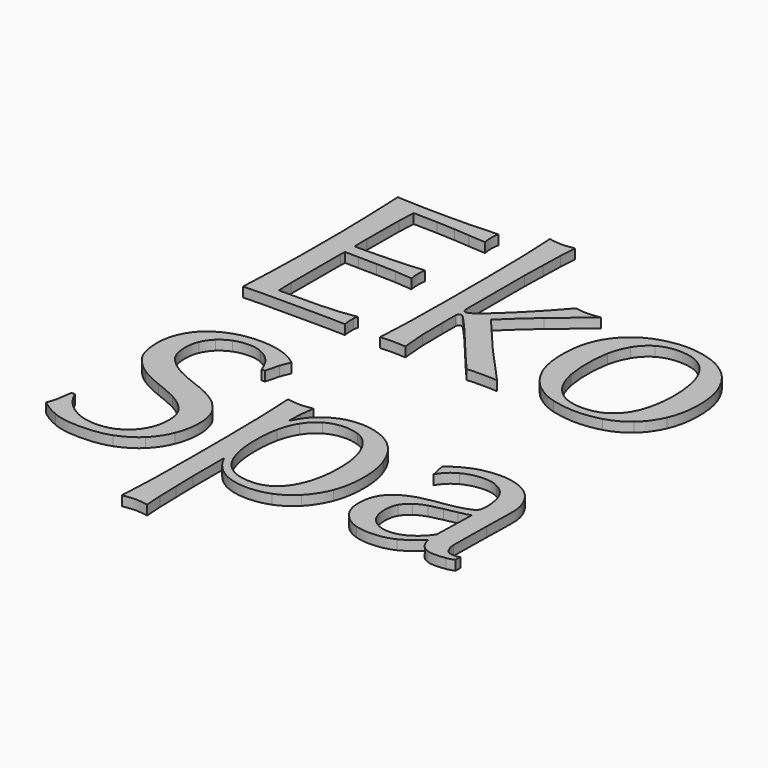
from build123d import *

# Parameters (mm, degrees)
F1_DEPTH = 2


with BuildPart() as f1:
    # F0 (on Top) → F1 (new body)
    with BuildSketch(Plane.XY):
        with BuildLine():
            add(Edge.make_bspline(
                [(-37.719566475, 40.1666103679), (-37.6031181557, 37.6823780262), (-37.544893996, 35.1593326345), (-37.544893996, 32.5974696081)],
                knots=[0, 0, 0, 0, 1, 1, 1, 1], degree=3))
            Line((-37.544893996, 32.5974696081), (-37.544893996, 22.5829118489))
            add(Edge.make_bspline(
                [(-37.544893996, 22.5829118489), (-37.544893996, 20.0210488225), (-37.6031181557, 17.4980011385), (-37.719566475, 15.0137710891)],
                knots=[0, 0, 0, 0, 1, 1, 1, 1], degree=3))
            add(Edge.make_bspline(
                [(-37.719566475, 15.0137710891), (-37.7971971598, 12.5683563821), (-37.8942389541, 10.1035328577), (-38.0106872735, 7.6193028083)],
                knots=[0, 0, 0, 0, 1, 1, 1, 1], degree=3))
            add(Edge.make_bspline(
                [(-38.0106872735, 7.6193028083), (-36.2251448481, 7.6969357853), (-34.4590135324, 7.7357511277), (-32.7122887416, 7.7357511277)],
                knots=[0, 0, 0, 0, 1, 1, 1, 1], degree=3))
            add(Edge.make_bspline(
                [(-32.7122887416, 7.7357511277), (-30.9655639509, 7.7357511277), (-29.1994303428, 7.7357511277), (-27.4138902097, 7.7357511277)],
                knots=[0, 0, 0, 0, 1, 1, 1, 1], degree=3))
            add(Edge.make_bspline(
                [(-27.4138902097, 7.7357511277), (-25.6283477844, 7.7357511277), (-23.8816229936, 7.7357511277), (-22.1737158376, 7.7357511277)],
                knots=[0, 0, 0, 0, 1, 1, 1, 1], degree=3))
            add(Edge.make_bspline(
                [(-22.1737158376, 7.7357511277), (-20.4269910468, 7.7357511277), (-18.6802662561, 7.6969357853), (-16.9335414654, 7.6193028083)],
                knots=[0, 0, 0, 0, 1, 1, 1, 1], degree=3))
            add(Edge.make_bspline(
                [(-16.9335414654, 7.6193028083), (-17.0499897847, 8.0074631088), (-17.1082139444, 8.512074021), (-17.1082139444, 9.1331309603)],
                knots=[0, 0, 0, 0, 1, 1, 1, 1], degree=3))
            add(Edge.make_bspline(
                [(-17.1082139444, 9.1331309603), (-17.1082139444, 9.4048429414), (-17.1082139444, 9.6959637399), (-17.1082139444, 10.0064933557)],
                knots=[0, 0, 0, 0, 1, 1, 1, 1], degree=3))
            add(Edge.make_bspline(
                [(-17.1082139444, 10.0064933557), (-17.0693963098, 10.3558383138), (-17.0111721501, 10.6663679296), (-16.9335414654, 10.9380799107)],
                knots=[0, 0, 0, 0, 1, 1, 1, 1], degree=3))
            add(Edge.make_bspline(
                [(-16.9335414654, 10.9380799107), (-17.8651280204, 10.7439986143), (-18.9713870546, 10.5887349526), (-20.2523185678, 10.4722866332)],
                knots=[0, 0, 0, 0, 1, 1, 1, 1], degree=3))
            add(Edge.make_bspline(
                [(-20.2523185678, 10.4722866332), (-21.4944324463, 10.3946536562), (-22.8335881192, 10.3170229714), (-24.2697855864, 10.2393899944)],
                knots=[0, 0, 0, 0, 1, 1, 1, 1], degree=3))
            add(Edge.make_bspline(
                [(-24.2697855864, 10.2393899944), (-25.667165419, 10.2005746521), (-27.103360594, 10.1811658347), (-28.5783734036, 10.1811658347)],
                knots=[0, 0, 0, 0, 1, 1, 1, 1], degree=3))
            add(Edge.make_bspline(
                [(-28.5783734036, 10.1811658347), (-30.0145685785, 10.1811658347), (-31.3731330687, 10.1811658347), (-32.6540645819, 10.1811658347)],
                knots=[0, 0, 0, 0, 1, 1, 1, 1], degree=3))
            add(Edge.make_bspline(
                [(-32.6540645819, 10.1811658347), (-32.6928799243, 10.9186710934), (-32.7316952667, 12.0055236025), (-32.7705129013, 13.4417187774)],
                knots=[0, 0, 0, 0, 1, 1, 1, 1], degree=3))
            add(Edge.make_bspline(
                [(-32.7705129013, 13.4417187774), (-32.7705129013, 14.8779139524), (-32.7705129013, 16.7022717201), (-32.7705129013, 18.9147897884)],
                knots=[0, 0, 0, 0, 1, 1, 1, 1], degree=3))
            Line((-32.7705129013, 18.9147897884), (-32.7705129013, 22.4082393698))
            Line((-32.7705129013, 22.4082393698), (-32.7705129013, 24.6789815978))
            add(Edge.make_bspline(
                [(-32.7705129013, 24.6789815978), (-32.7705129013, 25.3000385371), (-32.7705129013, 25.8046494492), (-32.7705129013, 26.1928097498)],
                knots=[0, 0, 0, 0, 1, 1, 1, 1], degree=3))
            add(Edge.make_bspline(
                [(-32.7705129013, 26.1928097498), (-32.7316952667, 26.6197876849), (-32.7122887416, 27.0079479854), (-32.7122887416, 27.3572929436)],
                knots=[0, 0, 0, 0, 1, 1, 1, 1], degree=3))
            add(Edge.make_bspline(
                [(-32.7122887416, 27.3572929436), (-32.0135988253, 27.3572929436), (-31.0820122703, 27.3378841262), (-29.9175290765, 27.2990687839)],
                knots=[0, 0, 0, 0, 1, 1, 1, 1], degree=3))
            add(Edge.make_bspline(
                [(-29.9175290765, 27.2990687839), (-28.714228248, 27.2990687839), (-27.4527055521, 27.2796599666), (-26.1329586965, 27.2408446242)],
                knots=[0, 0, 0, 0, 1, 1, 1, 1], degree=3))
            add(Edge.make_bspline(
                [(-26.1329586965, 27.2408446242), (-24.7743942063, 27.2408446242), (-23.4352385334, 27.2020292818), (-22.1154916779, 27.1243963048)],
                knots=[0, 0, 0, 0, 1, 1, 1, 1], degree=3))
            add(Edge.make_bspline(
                [(-22.1154916779, 27.1243963048), (-20.7569271876, 27.0467633278), (-19.5730351765, 26.9497238257), (-18.5638179367, 26.8332755064)],
                knots=[0, 0, 0, 0, 1, 1, 1, 1], degree=3))
            add(Edge.make_bspline(
                [(-18.5638179367, 26.8332755064), (-18.6802662561, 27.4155171033), (-18.7384904158, 27.9977587002), (-18.7384904158, 28.5800002971)],
                knots=[0, 0, 0, 0, 1, 1, 1, 1], degree=3))
            add(Edge.make_bspline(
                [(-18.7384904158, 28.5800002971), (-18.7384904158, 29.2010572364), (-18.6802662561, 29.8027076506), (-18.5638179367, 30.3849515398)],
                knots=[0, 0, 0, 0, 1, 1, 1, 1], degree=3))
            add(Edge.make_bspline(
                [(-18.5638179367, 30.3849515398), (-19.4177715148, 30.3073185628), (-20.3299492525, 30.2296855858), (-21.3003534422, 30.152054901)],
                knots=[0, 0, 0, 0, 1, 1, 1, 1], degree=3))
            add(Edge.make_bspline(
                [(-21.3003534422, 30.152054901), (-22.2319399972, 30.1132372664), (-23.2605660544, 30.0550131067), (-24.3862339058, 29.977382422)],
                knots=[0, 0, 0, 0, 1, 1, 1, 1], degree=3))
            add(Edge.make_bspline(
                [(-24.3862339058, 29.977382422), (-25.511899465, 29.9385647873), (-26.7540156358, 29.8997494449), (-28.112580126, 29.8609341026)],
                knots=[0, 0, 0, 0, 1, 1, 1, 1], degree=3))
            add(Edge.make_bspline(
                [(-28.112580126, 29.8609341026), (-29.471142324, 29.8221164679), (-31.0043792933, 29.8027099429), (-32.7122887416, 29.8027099429)],
                knots=[0, 0, 0, 0, 1, 1, 1, 1], degree=3))
            add(Edge.make_bspline(
                [(-32.7122887416, 29.8027099429), (-32.7122887416, 30.5402152015), (-32.7316952667, 31.6270654183), (-32.7705129013, 33.0632628856)],
                knots=[0, 0, 0, 0, 1, 1, 1, 1], degree=3))
            add(Edge.make_bspline(
                [(-32.7705129013, 33.0632628856), (-32.7705129013, 34.4994580605), (-32.7705129013, 35.9744708701), (-32.7705129013, 37.4882990221)],
                knots=[0, 0, 0, 0, 1, 1, 1, 1], degree=3))
            add(Edge.make_bspline(
                [(-32.7705129013, 37.4882990221), (-32.7705129013, 38.924494197), (-32.751104084, 40.2054257102), (-32.7122887416, 41.3310935617)],
                knots=[0, 0, 0, 0, 1, 1, 1, 1], degree=3))
            add(Edge.make_bspline(
                [(-32.7122887416, 41.3310935617), (-32.6346557646, 42.4567591209), (-32.5764316049, 43.640651132), (-32.5376162626, 44.8827673029)],
                knots=[0, 0, 0, 0, 1, 1, 1, 1], degree=3))
            add(Edge.make_bspline(
                [(-32.5376162626, 44.8827673029), (-30.6356255178, 44.8827673029), (-29.0053490464, 44.8439496682), (-27.6467868485, 44.7663189835)],
                knots=[0, 0, 0, 0, 1, 1, 1, 1], degree=3))
            add(Edge.make_bspline(
                [(-27.6467868485, 44.7663189835), (-26.2882223583, 44.7275013488), (-25.0461061875, 44.6692771891), (-23.9204406283, 44.5916465044)],
                knots=[0, 0, 0, 0, 1, 1, 1, 1], degree=3))
            add(Edge.make_bspline(
                [(-23.9204406283, 44.5916465044), (-22.7559574345, 44.5140135274), (-21.6691049254, 44.4363805504), (-20.6598876856, 44.3587498656)],
                knots=[0, 0, 0, 0, 1, 1, 1, 1], degree=3))
            add(Edge.make_bspline(
                [(-20.6598876856, 44.3587498656), (-19.6118528112, 44.2811168886), (-18.4667761424, 44.2034839116), (-17.2246622638, 44.1258532269)],
                knots=[0, 0, 0, 0, 1, 1, 1, 1], degree=3))
            add(Edge.make_bspline(
                [(-17.2246622638, 44.1258532269), (-17.3411105832, 44.7080948238), (-17.3993347429, 45.2903364207), (-17.3993347429, 45.8725780176)],
                knots=[0, 0, 0, 0, 1, 1, 1, 1], degree=3))
            add(Edge.make_bspline(
                [(-17.3993347429, 45.8725780176), (-17.3993347429, 46.4548196145), (-17.3411105832, 47.0370612114), (-17.2246622638, 47.6193028083)],
                knots=[0, 0, 0, 0, 1, 1, 1, 1], degree=3))
            add(Edge.make_bspline(
                [(-17.2246622638, 47.6193028083), (-18.9713870546, 47.5416698313), (-20.698703028, 47.4640368543), (-22.4066124763, 47.3864061696)],
                knots=[0, 0, 0, 0, 1, 1, 1, 1], degree=3))
            add(Edge.make_bspline(
                [(-22.4066124763, 47.3864061696), (-24.1145196324, 47.3475885349), (-25.8418378981, 47.3281820099), (-27.5885626888, 47.3281820099)],
                knots=[0, 0, 0, 0, 1, 1, 1, 1], degree=3))
            add(Edge.make_bspline(
                [(-27.5885626888, 47.3281820099), (-29.3352874795, 47.3281820099), (-31.0820122703, 47.3475885349), (-32.828737061, 47.3864061696)],
                knots=[0, 0, 0, 0, 1, 1, 1, 1], degree=3))
            add(Edge.make_bspline(
                [(-32.828737061, 47.3864061696), (-34.5366442171, 47.4640368543), (-36.2639624828, 47.5416698313), (-38.0106872735, 47.6193028083)],
                knots=[0, 0, 0, 0, 1, 1, 1, 1], degree=3))
            add(Edge.make_bspline(
                [(-38.0106872735, 47.6193028083), (-37.8942389541, 45.1350704667), (-37.7971971598, 42.6508404173), (-37.719566475, 40.1666103679)],
                knots=[0, 0, 0, 0, 1, 1, 1, 1], degree=3))
        make_face()
    extrude(amount=F1_DEPTH)


with BuildPart() as f1b:
    # F0 (on Top) → F1, piece 2 (new body)
    with BuildSketch(Plane.XY):
        with BuildLine():
            add(Edge.make_bspline(
                [(-9.3061765458, 39.0603513338), (-9.2673589112, 37.5077055471), (-9.2479523862, 36.0715103722), (-9.2479523862, 34.7517635166)],
                knots=[0, 0, 0, 0, 1, 1, 1, 1], degree=3))
            Line((-9.2479523862, 34.7517635166), (-9.2479523862, 24.2131883203))
            add(Edge.make_bspline(
                [(-9.2479523862, 24.2131883203), (-9.2479523862, 22.8934414647), (-9.2673589112, 21.4572439975), (-9.3061765458, 19.9046005031)],
                knots=[0, 0, 0, 0, 1, 1, 1, 1], degree=3))
            add(Edge.make_bspline(
                [(-9.3061765458, 19.9046005031), (-9.3061765458, 18.3519570088), (-9.3255830709, 16.8187200395), (-9.3644007055, 15.3048918875)],
                knots=[0, 0, 0, 0, 1, 1, 1, 1], degree=3))
            add(Edge.make_bspline(
                [(-9.3644007055, 15.3048918875), (-9.4032160479, 13.7910637356), (-9.4614402076, 12.3548685606), (-9.5390731846, 10.9963040704)],
                knots=[0, 0, 0, 0, 1, 1, 1, 1], degree=3))
            add(Edge.make_bspline(
                [(-9.5390731846, 10.9963040704), (-9.577888527, 9.6377395802), (-9.6361126867, 8.512074021), (-9.7137456637, 7.6193028083)],
                knots=[0, 0, 0, 0, 1, 1, 1, 1], degree=3))
            add(Edge.make_bspline(
                [(-9.7137456637, 7.6193028083), (-8.820974451, 7.6969357853), (-7.9476120556, 7.7357511277), (-7.0936584776, 7.7357511277)],
                knots=[0, 0, 0, 0, 1, 1, 1, 1], degree=3))
            add(Edge.make_bspline(
                [(-7.0936584776, 7.7357511277), (-6.2397026073, 7.7357511277), (-5.3663402119, 7.6969357853), (-4.4735712915, 7.6193028083)],
                knots=[0, 0, 0, 0, 1, 1, 1, 1], degree=3))
            add(Edge.make_bspline(
                [(-4.4735712915, 7.6193028083), (-4.6676502956, 9.288394622), (-4.8035074323, 10.9380799107), (-4.8811404093, 12.5683563821)],
                knots=[0, 0, 0, 0, 1, 1, 1, 1], degree=3))
            add(Edge.make_bspline(
                [(-4.8811404093, 12.5683563821), (-4.9199557517, 14.2374481958), (-4.939364569, 15.9453576441), (-4.939364569, 17.6920824349)],
                knots=[0, 0, 0, 0, 1, 1, 1, 1], degree=3))
            Line((-4.939364569, 17.6920824349), (-4.939364569, 21.1855320163))
            add(Edge.make_bspline(
                [(-4.939364569, 21.1855320163), (-4.939364569, 21.6513252939), (-4.7452832726, 21.8842219326), (-4.3571229721, 21.8842219326)],
                knots=[0, 0, 0, 0, 1, 1, 1, 1], degree=3))
            add(Edge.make_bspline(
                [(-4.3571229721, 21.8842219326), (-4.2018570181, 21.8842219326), (-4.0465933563, 21.8259977729), (-3.8913296946, 21.7095494535)],
                knots=[0, 0, 0, 0, 1, 1, 1, 1], degree=3))
            add(Edge.make_bspline(
                [(-3.8913296946, 21.7095494535), (-3.7360637405, 21.5931011342), (-3.6002088961, 21.4572439975), (-3.4837605767, 21.3019803357)],
                knots=[0, 0, 0, 0, 1, 1, 1, 1], degree=3))
            add(Edge.make_bspline(
                [(-3.4837605767, 21.3019803357), (-2.7850706605, 20.5644750771), (-1.9505236075, 19.632888522), (-0.98012171, 18.5072206705)],
                knots=[0, 0, 0, 0, 1, 1, 1, 1], degree=3))
            add(Edge.make_bspline(
                [(-0.98012171, 18.5072206705), (-0.0097175203, 17.3815528191), (0.9994997195, 16.1782542829), (2.0475345939, 14.8973227697)],
                knots=[0, 0, 0, 0, 1, 1, 1, 1], degree=3))
            add(Edge.make_bspline(
                [(2.0475345939, 14.8973227697), (3.134387103, 13.6163912565), (4.2212373198, 12.316050926), (5.3080875366, 10.9963040704)],
                knots=[0, 0, 0, 0, 1, 1, 1, 1], degree=3))
            add(Edge.make_bspline(
                [(5.3080875366, 10.9963040704), (6.3949400457, 9.7153725572), (7.3653419431, 8.5897047057), (8.2192955211, 7.6193028083)],
                knots=[0, 0, 0, 0, 1, 1, 1, 1], degree=3))
            add(Edge.make_bspline(
                [(8.2192955211, 7.6193028083), (8.7627217757, 7.6969357853), (9.2867392129, 7.7357511277), (9.7913478328, 7.7357511277)],
                knots=[0, 0, 0, 0, 1, 1, 1, 1], degree=3))
            add(Edge.make_bspline(
                [(9.7913478328, 7.7357511277), (10.295958745, 7.7357511277), (10.7617520225, 7.7357511277), (11.1887276654, 7.7357511277)],
                knots=[0, 0, 0, 0, 1, 1, 1, 1], degree=3))
            add(Edge.make_bspline(
                [(11.1887276654, 7.7357511277), (11.6933385776, 7.7357511277), (12.1979471975, 7.7357511277), (12.7025558173, 7.7357511277)],
                knots=[0, 0, 0, 0, 1, 1, 1, 1], degree=3))
            add(Edge.make_bspline(
                [(12.7025558173, 7.7357511277), (13.2459820719, 7.7357511277), (13.8476324861, 7.6969357853), (14.5075047678, 7.6193028083)],
                knots=[0, 0, 0, 0, 1, 1, 1, 1], degree=3))
            add(Edge.make_bspline(
                [(14.5075047678, 7.6193028083), (12.0620900607, 10.2199811771), (9.6554929884, 12.8594771805), (7.2877089661, 15.5377885263)],
                knots=[0, 0, 0, 0, 1, 1, 1, 1], degree=3))
            add(Edge.make_bspline(
                [(7.2877089661, 15.5377885263), (4.9587425784, 18.2160998721), (2.6880003505, 20.8944112179), (0.4754822822, 23.5727225637)],
                knots=[0, 0, 0, 0, 1, 1, 1, 1], degree=3))
            add(Edge.make_bspline(
                [(0.4754822822, 23.5727225637), (2.4939213464, 25.5523439932), (4.6093976203, 27.4931500803), (6.8219156886, 29.3951385328)],
                knots=[0, 0, 0, 0, 1, 1, 1, 1], degree=3))
            add(Edge.make_bspline(
                [(6.8219156886, 29.3951385328), (9.0732513915, 31.3359446199), (11.4216243041, 33.2961595243), (13.8670390112, 35.2757809538)],
                knots=[0, 0, 0, 0, 1, 1, 1, 1], degree=3))
            add(Edge.make_bspline(
                [(13.8670390112, 35.2757809538), (13.2071667295, 35.1981479768), (12.663740475, 35.1205149998), (12.2367625398, 35.0428843151)],
                knots=[0, 0, 0, 0, 1, 1, 1, 1], degree=3))
            add(Edge.make_bspline(
                [(12.2367625398, 35.0428843151), (11.8097868969, 35.0040666804), (11.3828089618, 34.9846601554), (10.9558310266, 34.9846601554)],
                knots=[0, 0, 0, 0, 1, 1, 1, 1], degree=3))
            add(Edge.make_bspline(
                [(10.9558310266, 34.9846601554), (10.2571411103, 34.9846601554), (9.5196358517, 35.0816996574), (8.7433129584, 35.2757809538)],
                knots=[0, 0, 0, 0, 1, 1, 1, 1], degree=3))
            add(Edge.make_bspline(
                [(8.7433129584, 35.2757809538), (7.850544038, 34.2277460794), (6.8607333232, 33.1214870453), (5.7738808141, 31.9570038515)],
                knots=[0, 0, 0, 0, 1, 1, 1, 1], degree=3))
            add(Edge.make_bspline(
                [(5.7738808141, 31.9570038515), (4.6870305973, 30.7925206576), (3.6195869056, 29.6862593312), (2.5715520311, 28.6382244568)],
                knots=[0, 0, 0, 0, 1, 1, 1, 1], degree=3))
            add(Edge.make_bspline(
                [(2.5715520311, 28.6382244568), (1.5623347913, 27.6290049247), (0.6307482363, 26.7362360043), (-0.2232076341, 25.959913111)],
                knots=[0, 0, 0, 0, 1, 1, 1, 1], degree=3))
            add(Edge.make_bspline(
                [(-0.2232076341, 25.959913111), (-1.0383458697, 25.1835902177), (-1.6205874666, 24.6595727805), (-1.9699324248, 24.3878607993)],
                knots=[0, 0, 0, 0, 1, 1, 1, 1], degree=3))
            add(Edge.make_bspline(
                [(-1.9699324248, 24.3878607993), (-2.4357257023, 24.0385158412), (-2.8627013452, 23.7279862254), (-3.250863938, 23.4562742443)],
                knots=[0, 0, 0, 0, 1, 1, 1, 1], degree=3))
            add(Edge.make_bspline(
                [(-3.250863938, 23.4562742443), (-3.6002088961, 23.1845622631), (-3.9301450369, 23.0487051264), (-4.2406746527, 23.0487051264)],
                knots=[0, 0, 0, 0, 1, 1, 1, 1], degree=3))
            add(Edge.make_bspline(
                [(-4.2406746527, 23.0487051264), (-4.7064679303, 23.0487051264), (-4.939364569, 23.4174589019), (-4.939364569, 24.1549641606)],
                knots=[0, 0, 0, 0, 1, 1, 1, 1], degree=3))
            Line((-4.939364569, 24.1549641606), (-4.939364569, 34.7517635166))
            add(Edge.make_bspline(
                [(-4.939364569, 34.7517635166), (-4.939364569, 36.0715103722), (-4.939364569, 37.5077055471), (-4.939364569, 39.0603513338)],
                knots=[0, 0, 0, 0, 1, 1, 1, 1], degree=3))
            add(Edge.make_bspline(
                [(-4.939364569, 39.0603513338), (-4.9005469344, 40.6129948281), (-4.861731592, 42.1462317974), (-4.8229162496, 43.6600599493)],
                knots=[0, 0, 0, 0, 1, 1, 1, 1], degree=3))
            add(Edge.make_bspline(
                [(-4.8229162496, 43.6600599493), (-4.784098615, 45.1738881013), (-4.7452832726, 46.6100832763), (-4.7064679303, 47.9686477665)],
                knots=[0, 0, 0, 0, 1, 1, 1, 1], degree=3))
            add(Edge.make_bspline(
                [(-4.7064679303, 47.9686477665), (-4.6288349532, 49.3660275991), (-4.5512019762, 50.5499173179), (-4.4735712915, 51.5203215076)],
                knots=[0, 0, 0, 0, 1, 1, 1, 1], degree=3))
            add(Edge.make_bspline(
                [(-4.4735712915, 51.5203215076), (-5.5604215083, 51.3262402112), (-6.4337839037, 51.2292007092), (-7.0936584776, 51.2292007092)],
                knots=[0, 0, 0, 0, 1, 1, 1, 1], degree=3))
            add(Edge.make_bspline(
                [(-7.0936584776, 51.2292007092), (-7.7535307592, 51.2292007092), (-8.6268931546, 51.3262402112), (-9.7137456637, 51.5203215076)],
                knots=[0, 0, 0, 0, 1, 1, 1, 1], degree=3))
            add(Edge.make_bspline(
                [(-9.7137456637, 51.5203215076), (-9.6361126867, 50.5499173179), (-9.577888527, 49.3660275991), (-9.5390731846, 47.9686477665)],
                knots=[0, 0, 0, 0, 1, 1, 1, 1], degree=3))
            add(Edge.make_bspline(
                [(-9.5390731846, 47.9686477665), (-9.4614402076, 46.6100832763), (-9.4032160479, 45.1738881013), (-9.3644007055, 43.6600599493)],
                knots=[0, 0, 0, 0, 1, 1, 1, 1], degree=3))
            add(Edge.make_bspline(
                [(-9.3644007055, 43.6600599493), (-9.3255830709, 42.1462317974), (-9.3061765458, 40.6129948281), (-9.3061765458, 39.0603513338)],
                knots=[0, 0, 0, 0, 1, 1, 1, 1], degree=3))
        make_face()
    extrude(amount=F1_DEPTH)


with BuildPart() as f1c:
    # F0 (on Top) → F1, piece 3 (new body)
    with BuildSketch(Plane.XY):
        with BuildLine():
            add(Edge.make_bspline(
                [(18.233850988, 28.0559828599), (17.4187127523, 26.2316250921), (17.0111436345, 23.9997004988), (17.0111436345, 21.3602044954)],
                knots=[0, 0, 0, 0, 1, 1, 1, 1], degree=3))
            add(Edge.make_bspline(
                [(17.0111436345, 21.3602044954), (17.0111436345, 18.720708492), (17.4187127523, 16.4693750814), (18.233850988, 14.6062019712)],
                knots=[0, 0, 0, 0, 1, 1, 1, 1], degree=3))
            add(Edge.make_bspline(
                [(18.233850988, 14.6062019712), (19.0878068583, 12.7818442035), (20.1940658924, 11.2874248689), (21.5526280904, 10.122941675)],
                knots=[0, 0, 0, 0, 1, 1, 1, 1], degree=3))
            add(Edge.make_bspline(
                [(21.5526280904, 10.122941675), (22.9111925806, 8.9972738236), (24.4250207326, 8.2015444052), (26.0941125463, 7.7357511277)],
                knots=[0, 0, 0, 0, 1, 1, 1, 1], degree=3))
            add(Edge.make_bspline(
                [(26.0941125463, 7.7357511277), (27.8020219946, 7.2699578502), (29.4905226257, 7.0370612114), (31.1596144394, 7.0370612114)],
                knots=[0, 0, 0, 0, 1, 1, 1, 1], degree=3))
            add(Edge.make_bspline(
                [(31.1596144394, 7.0370612114), (32.8675238878, 7.0370612114), (34.5560245188, 7.2699578502), (36.2251163325, 7.7357511277)],
                knots=[0, 0, 0, 0, 1, 1, 1, 1], degree=3))
            add(Edge.make_bspline(
                [(36.2251163325, 7.7357511277), (37.8942104385, 8.2015444052), (39.4080385905, 8.9972738236), (40.7666007884, 10.122941675)],
                knots=[0, 0, 0, 0, 1, 1, 1, 1], degree=3))
            add(Edge.make_bspline(
                [(40.7666007884, 10.122941675), (42.1251652786, 11.2874248689), (43.2120154954, 12.7818442035), (44.0271537311, 14.6062019712)],
                knots=[0, 0, 0, 0, 1, 1, 1, 1], degree=3))
            add(Edge.make_bspline(
                [(44.0271537311, 14.6062019712), (44.8811096014, 16.4693750814), (45.3080852443, 18.720708492), (45.3080852443, 21.3602044954)],
                knots=[0, 0, 0, 0, 1, 1, 1, 1], degree=3))
            add(Edge.make_bspline(
                [(45.3080852443, 21.3602044954), (45.3080852443, 23.9997004988), (44.8811096014, 26.2316250921), (44.0271537311, 28.0559828599)],
                knots=[0, 0, 0, 0, 1, 1, 1, 1], degree=3))
            add(Edge.make_bspline(
                [(44.0271537311, 28.0559828599), (43.2120154954, 29.91915597), (42.1251652786, 31.4135775969), (40.7666007884, 32.5392454484)],
                knots=[0, 0, 0, 0, 1, 1, 1, 1], degree=3))
            add(Edge.make_bspline(
                [(40.7666007884, 32.5392454484), (39.4080385905, 33.7037286422), (37.8942104385, 34.5382734029), (36.2251163325, 35.0428843151)],
                knots=[0, 0, 0, 0, 1, 1, 1, 1], degree=3))
            add(Edge.make_bspline(
                [(36.2251163325, 35.0428843151), (34.5560245188, 35.5863082773), (32.8675238878, 35.8580225507), (31.1596144394, 35.8580225507)],
                knots=[0, 0, 0, 0, 1, 1, 1, 1], degree=3))
            add(Edge.make_bspline(
                [(31.1596144394, 35.8580225507), (29.4905226257, 35.8580225507), (27.8020219946, 35.5863082773), (26.0941125463, 35.0428843151)],
                knots=[0, 0, 0, 0, 1, 1, 1, 1], degree=3))
            add(Edge.make_bspline(
                [(26.0941125463, 35.0428843151), (24.4250207326, 34.5382734029), (22.9111925806, 33.7037286422), (21.5526280904, 32.5392454484)],
                knots=[0, 0, 0, 0, 1, 1, 1, 1], degree=3))
            add(Edge.make_bspline(
                [(21.5526280904, 32.5392454484), (20.1940658924, 31.4135775969), (19.0878068583, 29.91915597), (18.233850988, 28.0559828599)],
                knots=[0, 0, 0, 0, 1, 1, 1, 1], degree=3))
        make_face()
        with BuildLine():
            add(Edge.make_bspline(
                [(22.5424388051, 16.6440475604), (22.270726824, 18.1578757124), (22.1348696873, 19.7299280241), (22.1348696873, 21.3602044954)],
                knots=[0, 0, 0, 0, 1, 1, 1, 1], degree=3))
            add(Edge.make_bspline(
                [(22.1348696873, 21.3602044954), (22.1348696873, 22.9904809667), (22.270726824, 24.5625332784), (22.5424388051, 26.0763614304)],
                knots=[0, 0, 0, 0, 1, 1, 1, 1], degree=3))
            add(Edge.make_bspline(
                [(22.5424388051, 26.0763614304), (22.8529684209, 27.5901895823), (23.3575770408, 28.9293452552), (24.0562669571, 30.0938307413)],
                knots=[0, 0, 0, 0, 1, 1, 1, 1], degree=3))
            add(Edge.make_bspline(
                [(24.0562669571, 30.0938307413), (24.7549568734, 31.2971292775), (25.6865434284, 32.2481246499), (26.8510266223, 32.9468145662)],
                knots=[0, 0, 0, 0, 1, 1, 1, 1], degree=3))
            add(Edge.make_bspline(
                [(26.8510266223, 32.9468145662), (28.0155098161, 33.6455044825), (29.4517072833, 33.9948494406), (31.1596144394, 33.9948494406)],
                knots=[0, 0, 0, 0, 1, 1, 1, 1], degree=3))
            add(Edge.make_bspline(
                [(31.1596144394, 33.9948494406), (32.8675238878, 33.9948494406), (34.3037190627, 33.6455044825), (35.4682022565, 32.9468145662)],
                knots=[0, 0, 0, 0, 1, 1, 1, 1], degree=3))
            add(Edge.make_bspline(
                [(35.4682022565, 32.9468145662), (36.6326854503, 32.2481246499), (37.5642720054, 31.2971292775), (38.2629619217, 30.0938307413)],
                knots=[0, 0, 0, 0, 1, 1, 1, 1], degree=3))
            add(Edge.make_bspline(
                [(38.2629619217, 30.0938307413), (38.961651838, 28.9293452552), (39.4468539328, 27.5901895823), (39.718565914, 26.0763614304)],
                knots=[0, 0, 0, 0, 1, 1, 1, 1], degree=3))
            add(Edge.make_bspline(
                [(39.718565914, 26.0763614304), (40.0290955297, 24.5625332784), (40.1843591915, 22.9904809667), (40.1843591915, 21.3602044954)],
                knots=[0, 0, 0, 0, 1, 1, 1, 1], degree=3))
            add(Edge.make_bspline(
                [(40.1843591915, 21.3602044954), (40.1843591915, 19.7299280241), (40.0290955297, 18.1578757124), (39.718565914, 16.6440475604)],
                knots=[0, 0, 0, 0, 1, 1, 1, 1], degree=3))
            add(Edge.make_bspline(
                [(39.718565914, 16.6440475604), (39.4468539328, 15.1302194085), (38.961651838, 13.7716549182), (38.2629619217, 12.5683563821)],
                knots=[0, 0, 0, 0, 1, 1, 1, 1], degree=3))
            add(Edge.make_bspline(
                [(38.2629619217, 12.5683563821), (37.5642720054, 11.4038731882), (36.6326854503, 10.4722866332), (35.4682022565, 9.7735967169)],
                knots=[0, 0, 0, 0, 1, 1, 1, 1], degree=3))
            add(Edge.make_bspline(
                [(35.4682022565, 9.7735967169), (34.3037190627, 9.0749068006), (32.8675238878, 8.7255618425), (31.1596144394, 8.7255618425)],
                knots=[0, 0, 0, 0, 1, 1, 1, 1], degree=3))
            add(Edge.make_bspline(
                [(31.1596144394, 8.7255618425), (29.4517072833, 8.7255618425), (28.0155098161, 9.0749068006), (26.8510266223, 9.7735967169)],
                knots=[0, 0, 0, 0, 1, 1, 1, 1], degree=3))
            add(Edge.make_bspline(
                [(26.8510266223, 9.7735967169), (25.6865434284, 10.4722866332), (24.7549568734, 11.4038731882), (24.0562669571, 12.5683563821)],
                knots=[0, 0, 0, 0, 1, 1, 1, 1], degree=3))
            add(Edge.make_bspline(
                [(24.0562669571, 12.5683563821), (23.3575770408, 13.7716549182), (22.8529684209, 15.1302194085), (22.5424388051, 16.6440475604)],
                knots=[0, 0, 0, 0, 1, 1, 1, 1], degree=3))
        make_face(mode=Mode.SUBTRACT)
    extrude(amount=F1_DEPTH)


with BuildPart() as f1d:
    # F0 (on Top) → F1, piece 4 (new body)
    with BuildSketch(Plane.XY):
        with BuildLine():
            add(Edge.make_bspline(
                [(-34.500329933, -40.8431658244), (-35.0049385529, -40.1056605657), (-35.4125076707, -39.3875618321), (-35.7230372865, -38.6888719158)],
                knots=[0, 0, 0, 0, 1, 1, 1, 1], degree=3))
            Line((-35.7230372865, -38.6888719158), (-36.4217272028, -38.6888719158))
            add(Edge.make_bspline(
                [(-36.4217272028, -38.6888719158), (-36.5381755222, -39.8145397673), (-36.6740303666, -40.7461263223), (-36.8292963206, -41.483631581)],
                knots=[0, 0, 0, 0, 1, 1, 1, 1], degree=3))
            add(Edge.make_bspline(
                [(-36.8292963206, -41.483631581), (-36.94574464, -42.1823214973), (-37.1786412788, -42.9780509156), (-37.5279862369, -43.8708221283)],
                knots=[0, 0, 0, 0, 1, 1, 1, 1], degree=3))
            add(Edge.make_bspline(
                [(-37.5279862369, -43.8708221283), (-36.5187667049, -44.685960364), (-35.276650534, -45.4234656227), (-33.8016400167, -46.0833401966)],
                knots=[0, 0, 0, 0, 1, 1, 1, 1], degree=3))
            add(Edge.make_bspline(
                [(-33.8016400167, -46.0833401966), (-32.2878118647, -46.7043971359), (-30.3275969603, -47.0149267516), (-27.9209998879, -47.0149267516)],
                knots=[0, 0, 0, 0, 1, 1, 1, 1], degree=3))
            add(Edge.make_bspline(
                [(-27.9209998879, -47.0149267516), (-25.669664185, -47.0149267516), (-23.6706362305, -46.7043971359), (-21.9239114398, -46.0833401966)],
                knots=[0, 0, 0, 0, 1, 1, 1, 1], degree=3))
            add(Edge.make_bspline(
                [(-21.9239114398, -46.0833401966), (-20.1383690144, -45.4234656227), (-18.6439496797, -44.5112878849), (-17.4406511435, -43.3468046911)],
                knots=[0, 0, 0, 0, 1, 1, 1, 1], degree=3))
            add(Edge.make_bspline(
                [(-17.4406511435, -43.3468046911), (-16.1985349727, -42.1435061549), (-15.2669484177, -40.7461263223), (-14.6458914784, -39.1546651934)],
                knots=[0, 0, 0, 0, 1, 1, 1, 1], degree=3))
            add(Edge.make_bspline(
                [(-14.6458914784, -39.1546651934), (-13.9860169045, -37.5632040644), (-13.6560807636, -35.8747034333), (-13.6560807636, -34.0891633002)],
                knots=[0, 0, 0, 0, 1, 1, 1, 1], degree=3))
            add(Edge.make_bspline(
                [(-13.6560807636, -34.0891633002), (-13.6560807636, -31.954278209), (-14.1218740412, -30.2463687606), (-15.0534605962, -28.9654372474)],
                knots=[0, 0, 0, 0, 1, 1, 1, 1], degree=3))
            add(Edge.make_bspline(
                [(-15.0534605962, -28.9654372474), (-15.9462295166, -27.6845057342), (-17.0718973681, -26.6364708598), (-18.4304618583, -25.8213326241)],
                knots=[0, 0, 0, 0, 1, 1, 1, 1], degree=3))
            add(Edge.make_bspline(
                [(-18.4304618583, -25.8213326241), (-19.7890240562, -25.0061943884), (-21.2640368658, -24.3269109972), (-22.8554979948, -23.7834847426)],
                knots=[0, 0, 0, 0, 1, 1, 1, 1], degree=3))
            add(Edge.make_bspline(
                [(-22.8554979948, -23.7834847426), (-24.4081414891, -23.2012431457), (-25.8637454814, -22.5607773891), (-27.2223099716, -21.8620874728)],
                knots=[0, 0, 0, 0, 1, 1, 1, 1], degree=3))
            add(Edge.make_bspline(
                [(-27.2223099716, -21.8620874728), (-28.5808721696, -21.1245822142), (-29.7259488383, -20.2318110015), (-30.6575353934, -19.1837761271)],
                knots=[0, 0, 0, 0, 1, 1, 1, 1], degree=3))
            add(Edge.make_bspline(
                [(-30.6575353934, -19.1837761271), (-31.5503043138, -18.1357412526), (-31.9966910663, -16.6995460777), (-31.9966910663, -14.8751883099)],
                knots=[0, 0, 0, 0, 1, 1, 1, 1], degree=3))
            add(Edge.make_bspline(
                [(-31.9966910663, -14.8751883099), (-31.9966910663, -13.8271534355), (-31.8220185872, -12.8567515381), (-31.4726736291, -11.9639803254)],
                knots=[0, 0, 0, 0, 1, 1, 1, 1], degree=3))
            add(Edge.make_bspline(
                [(-31.4726736291, -11.9639803254), (-31.0845110363, -11.071211405), (-30.5604935991, -10.314297329), (-29.9006213174, -9.6932380974)],
                knots=[0, 0, 0, 0, 1, 1, 1, 1], degree=3))
            add(Edge.make_bspline(
                [(-29.9006213174, -9.6932380974), (-29.2019314011, -9.0333658158), (-28.4061996905, -8.5287549036), (-27.5134307701, -8.1794099455)],
                knots=[0, 0, 0, 0, 1, 1, 1, 1], degree=3))
            add(Edge.make_bspline(
                [(-27.5134307701, -8.1794099455), (-26.581844215, -7.8300649873), (-25.572624683, -7.6553925082), (-24.4857744662, -7.6553925082)],
                knots=[0, 0, 0, 0, 1, 1, 1, 1], degree=3))
            add(Edge.make_bspline(
                [(-24.4857744662, -7.6553925082), (-23.3989219571, -7.6553925082), (-22.467335402, -7.8494738046), (-21.691014801, -8.2376341052)],
                knots=[0, 0, 0, 0, 1, 1, 1, 1], degree=3))
            add(Edge.make_bspline(
                [(-21.691014801, -8.2376341052), (-20.9146919077, -8.5869790633), (-20.2548173338, -9.0333658158), (-19.7113933715, -9.576789778)],
                knots=[0, 0, 0, 0, 1, 1, 1, 1], degree=3))
            add(Edge.make_bspline(
                [(-19.7113933715, -9.576789778), (-19.1291517746, -10.1202160326), (-18.6827650221, -10.7218664468), (-18.3722376986, -11.3817387285)],
                knots=[0, 0, 0, 0, 1, 1, 1, 1], degree=3))
            add(Edge.make_bspline(
                [(-18.3722376986, -11.3817387285), (-18.0228927405, -12.00279796), (-17.751178467, -12.5850395569), (-17.5570994629, -13.1284635192)],
                knots=[0, 0, 0, 0, 1, 1, 1, 1], degree=3))
            Line((-17.5570994629, -13.1284635192), (-16.8584095466, -13.1284635192))
            add(Edge.make_bspline(
                [(-16.8584095466, -13.1284635192), (-16.6255129079, -12.00279796), (-16.3926162691, -11.071211405), (-16.1597196303, -10.333703854)],
                knots=[0, 0, 0, 0, 1, 1, 1, 1], degree=3))
            add(Edge.make_bspline(
                [(-16.1597196303, -10.333703854), (-15.9268229916, -9.5961985954), (-15.6357021931, -8.8975086791), (-15.286357235, -8.2376341052)],
                knots=[0, 0, 0, 0, 1, 1, 1, 1], degree=3))
            add(Edge.make_bspline(
                [(-15.286357235, -8.2376341052), (-16.4508404288, -7.3060475501), (-17.7123631247, -6.6267664511), (-19.0709276149, -6.199788516)],
                knots=[0, 0, 0, 0, 1, 1, 1, 1], degree=3))
            add(Edge.make_bspline(
                [(-19.0709276149, -6.199788516), (-20.4294898128, -5.7339952384), (-22.0403597591, -5.5010985997), (-23.9035328692, -5.5010985997)],
                knots=[0, 0, 0, 0, 1, 1, 1, 1], degree=3))
            add(Edge.make_bspline(
                [(-23.9035328692, -5.5010985997), (-25.8443366641, -5.5010985997), (-27.5910614548, -5.7728128731), (-29.1437072414, -6.3162368354)],
                knots=[0, 0, 0, 0, 1, 1, 1, 1], degree=3))
            add(Edge.make_bspline(
                [(-29.1437072414, -6.3162368354), (-30.6963507358, -6.8596630899), (-32.0355064087, -7.6165771659), (-33.1611742601, -8.5869790633)],
                knots=[0, 0, 0, 0, 1, 1, 1, 1], degree=3))
            add(Edge.make_bspline(
                [(-33.1611742601, -8.5869790633), (-34.2480244769, -9.557383253), (-35.0825715299, -10.7218664468), (-35.6648131268, -12.0804286448)],
                knots=[0, 0, 0, 0, 1, 1, 1, 1], degree=3))
            add(Edge.make_bspline(
                [(-35.6648131268, -12.0804286448), (-36.2470547237, -13.4001777926), (-36.5381755222, -14.8751883099), (-36.5381755222, -16.5054647813)],
                knots=[0, 0, 0, 0, 1, 1, 1, 1], degree=3))
            add(Edge.make_bspline(
                [(-36.5381755222, -16.5054647813), (-36.5381755222, -18.7956158266), (-36.0917887697, -20.6199735943), (-35.1990198493, -21.9785357922)],
                knots=[0, 0, 0, 0, 1, 1, 1, 1], degree=3))
            add(Edge.make_bspline(
                [(-35.1990198493, -21.9785357922), (-34.2674332942, -23.3371002824), (-33.1223566255, -24.4627681339), (-31.7637944275, -25.3555393466)],
                knots=[0, 0, 0, 0, 1, 1, 1, 1], degree=3))
            add(Edge.make_bspline(
                [(-31.7637944275, -25.3555393466), (-30.4052299373, -26.2094929246), (-28.949625945, -26.9275916583), (-27.3969824507, -27.5098332552)],
                knots=[0, 0, 0, 0, 1, 1, 1, 1], degree=3))
            add(Edge.make_bspline(
                [(-27.3969824507, -27.5098332552), (-25.8055213217, -28.0920748521), (-24.3305085121, -28.7325406087), (-22.9719463142, -29.431230525)],
                knots=[0, 0, 0, 0, 1, 1, 1, 1], degree=3))
            add(Edge.make_bspline(
                [(-22.9719463142, -29.431230525), (-21.613381824, -30.1299204413), (-20.4877139725, -31.0032828366), (-19.5949450521, -32.0513177111)],
                knots=[0, 0, 0, 0, 1, 1, 1, 1], degree=3))
            add(Edge.make_bspline(
                [(-19.5949450521, -32.0513177111), (-18.6633584971, -33.0993525855), (-18.1975652195, -34.5161412354), (-18.1975652195, -36.3016813685)],
                knots=[0, 0, 0, 0, 1, 1, 1, 1], degree=3))
            add(Edge.make_bspline(
                [(-18.1975652195, -36.3016813685), (-18.1975652195, -37.4661645623), (-18.3916442236, -38.5724235964), (-18.7798068164, -39.6204584709)],
                knots=[0, 0, 0, 0, 1, 1, 1, 1], degree=3))
            add(Edge.make_bspline(
                [(-18.7798068164, -39.6204584709), (-19.167967117, -40.629678003), (-19.7307998965, -41.5224469234), (-20.4683074475, -42.2987698167)],
                knots=[0, 0, 0, 0, 1, 1, 1, 1], degree=3))
            add(Edge.make_bspline(
                [(-20.4683074475, -42.2987698167), (-21.1669973638, -43.0362750753), (-22.0403597591, -43.6379254896), (-23.0883946336, -44.1037187671)],
                knots=[0, 0, 0, 0, 1, 1, 1, 1], degree=3))
            add(Edge.make_bspline(
                [(-23.0883946336, -44.1037187671), (-24.0976118734, -44.5306967023), (-25.2426885421, -44.7441845237), (-26.5236200553, -44.7441845237)],
                knots=[0, 0, 0, 0, 1, 1, 1, 1], degree=3))
            add(Edge.make_bspline(
                [(-26.5236200553, -44.7441845237), (-27.7657339339, -44.7441845237), (-28.8914017853, -44.5695120446), (-29.9006213174, -44.2201670865)],
                knots=[0, 0, 0, 0, 1, 1, 1, 1], degree=3))
            add(Edge.make_bspline(
                [(-29.9006213174, -44.2201670865), (-30.9098385572, -43.832006786), (-31.8026097699, -43.3468046911), (-32.5789326632, -42.7645630942)],
                knots=[0, 0, 0, 0, 1, 1, 1, 1], degree=3))
            add(Edge.make_bspline(
                [(-32.5789326632, -42.7645630942), (-33.3164379219, -42.1823214973), (-33.9569036785, -41.5418557407), (-34.500329933, -40.8431658244)],
                knots=[0, 0, 0, 0, 1, 1, 1, 1], degree=3))
        make_face()
    extrude(amount=F1_DEPTH)


with BuildPart() as f1e:
    # F0 (on Top) → F1, piece 5 (new body)
    with BuildSketch(Plane.XY):
        with BuildLine():
            add(Edge.make_bspline(
                [(-7.3096473573, -31.2361794754), (-7.2708297227, -32.7888229697), (-7.2514231976, -34.225020437), (-7.2514231976, -35.5447672925)],
                knots=[0, 0, 0, 0, 1, 1, 1, 1], degree=3))
            Line((-7.2514231976, -35.5447672925), (-7.2514231976, -44.9770811625))
            add(Edge.make_bspline(
                [(-7.2514231976, -44.9770811625), (-7.2514231976, -46.2191973333), (-7.2708297227, -47.5971683486), (-7.3096473573, -49.1109965005)],
                knots=[0, 0, 0, 0, 1, 1, 1, 1], degree=3))
            add(Edge.make_bspline(
                [(-7.3096473573, -49.1109965005), (-7.3096473573, -50.6636399948), (-7.3290538824, -52.1968769641), (-7.367871517, -53.7107051161)],
                knots=[0, 0, 0, 0, 1, 1, 1, 1], degree=3))
            add(Edge.make_bspline(
                [(-7.367871517, -53.7107051161), (-7.4066868594, -55.2245332681), (-7.4649110191, -56.660728443), (-7.5425439961, -58.0192929332)],
                knots=[0, 0, 0, 0, 1, 1, 1, 1], degree=3))
            add(Edge.make_bspline(
                [(-7.5425439961, -58.0192929332), (-7.5813593384, -59.4166727658), (-7.6395834981, -60.600564777), (-7.7172164752, -61.5709666744)],
                knots=[0, 0, 0, 0, 1, 1, 1, 1], degree=3))
            add(Edge.make_bspline(
                [(-7.7172164752, -61.5709666744), (-6.6303639661, -61.376885378), (-5.7570015707, -61.2798458759), (-5.0971292891, -61.2798458759)],
                knots=[0, 0, 0, 0, 1, 1, 1, 1], degree=3))
            add(Edge.make_bspline(
                [(-5.0971292891, -61.2798458759), (-4.4372547151, -61.2798458759), (-3.5638923198, -61.376885378), (-2.477042103, -61.5709666744)],
                knots=[0, 0, 0, 0, 1, 1, 1, 1], degree=3))
            add(Edge.make_bspline(
                [(-2.477042103, -61.5709666744), (-2.5546727877, -60.600564777), (-2.6323057647, -59.4166727658), (-2.7099387417, -58.0192929332)],
                knots=[0, 0, 0, 0, 1, 1, 1, 1], degree=3))
            add(Edge.make_bspline(
                [(-2.7099387417, -58.0192929332), (-2.7487540841, -56.660728443), (-2.7875694265, -55.2245332681), (-2.8263870611, -53.7107051161)],
                knots=[0, 0, 0, 0, 1, 1, 1, 1], degree=3))
            add(Edge.make_bspline(
                [(-2.8263870611, -53.7107051161), (-2.8652024035, -52.1968769641), (-2.9040177458, -50.6636399948), (-2.9428353805, -49.1109965005)],
                knots=[0, 0, 0, 0, 1, 1, 1, 1], degree=3))
            add(Edge.make_bspline(
                [(-2.9428353805, -49.1109965005), (-2.9428353805, -47.5971683486), (-2.9428353805, -46.2191973333), (-2.9428353805, -44.9770811625)],
                knots=[0, 0, 0, 0, 1, 1, 1, 1], degree=3))
            Line((-2.9428353805, -44.9770811625), (-2.9428353805, -41.3089591019))
            Line((-2.9428353805, -41.3089591019), (-2.8263870611, -41.3089591019))
            add(Edge.make_bspline(
                [(-2.8263870611, -41.3089591019), (-1.0020292934, -44.9964899798), (2.0450358279, -46.8402542726), (6.3148060104, -46.8402542726)],
                knots=[0, 0, 0, 0, 1, 1, 1, 1], degree=3))
            add(Edge.make_bspline(
                [(6.3148060104, -46.8402542726), (7.8286341623, -46.8402542726), (9.3424623143, -46.5685422914), (10.8562904663, -46.0251160369)],
                knots=[0, 0, 0, 0, 1, 1, 1, 1], degree=3))
            add(Edge.make_bspline(
                [(10.8562904663, -46.0251160369), (12.3701186182, -45.44287444), (13.7092742911, -44.5501032273), (14.873757485, -43.3468046911)],
                knots=[0, 0, 0, 0, 1, 1, 1, 1], degree=3))
            add(Edge.make_bspline(
                [(14.873757485, -43.3468046911), (16.0770583134, -42.1435061549), (17.0474602108, -40.629678003), (17.7849654695, -38.8053202352)],
                knots=[0, 0, 0, 0, 1, 1, 1, 1], degree=3))
            add(Edge.make_bspline(
                [(17.7849654695, -38.8053202352), (18.5224730204, -36.9809624675), (18.8912245036, -34.8266685589), (18.8912245036, -32.3424385095)],
                knots=[0, 0, 0, 0, 1, 1, 1, 1], degree=3))
            add(Edge.make_bspline(
                [(18.8912245036, -32.3424385095), (18.8912245036, -29.8582084601), (18.5418795455, -27.7233210766), (17.8431896292, -25.9377809435)],
                knots=[0, 0, 0, 0, 1, 1, 1, 1], degree=3))
            add(Edge.make_bspline(
                [(17.8431896292, -25.9377809435), (17.1833173476, -24.1134231758), (16.2905461349, -22.6190015488), (15.1648782834, -21.454518355)],
                knots=[0, 0, 0, 0, 1, 1, 1, 1], degree=3))
            add(Edge.make_bspline(
                [(15.1648782834, -21.454518355), (14.0780280666, -20.2900351612), (12.8165053707, -19.4360815832), (11.3803079035, -18.8926553286)],
                knots=[0, 0, 0, 0, 1, 1, 1, 1], degree=3))
            add(Edge.make_bspline(
                [(11.3803079035, -18.8926553286), (9.9441127285, -18.3104137317), (8.4885087363, -18.0192929332), (7.0134959267, -18.0192929332)],
                knots=[0, 0, 0, 0, 1, 1, 1, 1], degree=3))
            add(Edge.make_bspline(
                [(7.0134959267, -18.0192929332), (5.5773007517, -18.0192929332), (4.2963692385, -18.232783047), (3.1707013871, -18.6597586898)],
                knots=[0, 0, 0, 0, 1, 1, 1, 1], degree=3))
            add(Edge.make_bspline(
                [(3.1707013871, -18.6597586898), (2.0450358279, -19.086736625), (1.0746316382, -19.6301628796), (0.2594934025, -20.2900351612)],
                knots=[0, 0, 0, 0, 1, 1, 1, 1], degree=3))
            add(Edge.make_bspline(
                [(0.2594934025, -20.2900351612), (-0.5168271985, -20.9110943928), (-1.1572929551, -21.5903754917), (-1.6619038673, -22.3278807504)],
                knots=[0, 0, 0, 0, 1, 1, 1, 1], degree=3))
            add(Edge.make_bspline(
                [(-1.6619038673, -22.3278807504), (-2.1665124872, -23.0265706667), (-2.5546727877, -23.6864452406), (-2.8263870611, -24.3075044722)],
                knots=[0, 0, 0, 0, 1, 1, 1, 1], degree=3))
            Line((-2.8263870611, -24.3075044722), (-2.9428353805, -24.3075044722))
            add(Edge.make_bspline(
                [(-2.9428353805, -24.3075044722), (-2.9428353805, -23.3759179171), (-2.9040177458, -22.4443290698), (-2.8263870611, -21.5127425147)],
                knots=[0, 0, 0, 0, 1, 1, 1, 1], degree=3))
            add(Edge.make_bspline(
                [(-2.8263870611, -21.5127425147), (-2.7487540841, -20.5811559596), (-2.6323057647, -19.6107540622), (-2.477042103, -18.6015345302)],
                knots=[0, 0, 0, 0, 1, 1, 1, 1], degree=3))
            add(Edge.make_bspline(
                [(-2.477042103, -18.6015345302), (-3.5638923198, -18.7956158266), (-4.4372547151, -18.8926553286), (-5.0971292891, -18.8926553286)],
                knots=[0, 0, 0, 0, 1, 1, 1, 1], degree=3))
            add(Edge.make_bspline(
                [(-5.0971292891, -18.8926553286), (-5.7570015707, -18.8926553286), (-6.6303639661, -18.7956158266), (-7.7172164752, -18.6015345302)],
                knots=[0, 0, 0, 0, 1, 1, 1, 1], degree=3))
            add(Edge.make_bspline(
                [(-7.7172164752, -18.6015345302), (-7.6395834981, -19.6107540622), (-7.5813593384, -20.8140525984), (-7.5425439961, -22.211432431)],
                knots=[0, 0, 0, 0, 1, 1, 1, 1], degree=3))
            add(Edge.make_bspline(
                [(-7.5425439961, -22.211432431), (-7.4649110191, -23.6088145559), (-7.4066868594, -25.0838273655), (-7.367871517, -26.6364708598)],
                knots=[0, 0, 0, 0, 1, 1, 1, 1], degree=3))
            add(Edge.make_bspline(
                [(-7.367871517, -26.6364708598), (-7.3290538824, -28.1502990118), (-7.3096473573, -29.6835359811), (-7.3096473573, -31.2361794754)],
                knots=[0, 0, 0, 0, 1, 1, 1, 1], degree=3))
        make_face()
        with BuildLine():
            add(Edge.make_bspline(
                [(13.0105843748, -26.5200225404), (13.515195287, -28.0338506924), (13.7674984508, -29.9552479622), (13.7674984508, -32.2842143498)],
                knots=[0, 0, 0, 0, 1, 1, 1, 1], degree=3))
            add(Edge.make_bspline(
                [(13.7674984508, -32.2842143498), (13.7674984508, -34.0309391406), (13.5928259718, -35.6806244292), (13.2434810136, -37.2332679236)],
                knots=[0, 0, 0, 0, 1, 1, 1, 1], degree=3))
            add(Edge.make_bspline(
                [(13.2434810136, -37.2332679236), (12.9329536901, -38.7470960755), (12.4283427779, -40.0862517484), (11.7296528616, -41.2507349422)],
                knots=[0, 0, 0, 0, 1, 1, 1, 1], degree=3))
            add(Edge.make_bspline(
                [(11.7296528616, -41.2507349422), (11.06978058, -42.3764027937), (10.2158247097, -43.2691717141), (9.1677898352, -43.929046288)],
                knots=[0, 0, 0, 0, 1, 1, 1, 1], degree=3))
            add(Edge.make_bspline(
                [(9.1677898352, -43.929046288), (8.1585725955, -44.5501032273), (6.955271767, -44.8606328431), (5.5578919344, -44.8606328431)],
                knots=[0, 0, 0, 0, 1, 1, 1, 1], degree=3))
            add(Edge.make_bspline(
                [(5.5578919344, -44.8606328431), (-0.1092580807, -44.8606328431), (-2.9428353805, -40.8237570071), (-2.9428353805, -32.7500076274)],
                knots=[0, 0, 0, 0, 1, 1, 1, 1], degree=3))
            add(Edge.make_bspline(
                [(-2.9428353805, -32.7500076274), (-2.9428353805, -31.0809158136), (-2.7875694265, -29.508863502), (-2.477042103, -28.0338506924)],
                knots=[0, 0, 0, 0, 1, 1, 1, 1], degree=3))
            add(Edge.make_bspline(
                [(-2.477042103, -28.0338506924), (-2.1665124872, -26.5200225404), (-1.6619038673, -25.2196822099), (-0.963213951, -24.1328297008)],
                knots=[0, 0, 0, 0, 1, 1, 1, 1], degree=3))
            add(Edge.make_bspline(
                [(-0.963213951, -24.1328297008), (-0.2645240347, -23.0071641416), (0.628247178, -22.1143929289), (1.7150973948, -21.454518355)],
                knots=[0, 0, 0, 0, 1, 1, 1, 1], degree=3))
            add(Edge.make_bspline(
                [(1.7150973948, -21.454518355), (2.8407652462, -20.7946460734), (4.1799209191, -20.4647076403), (5.7325644135, -20.4647076403)],
                knots=[0, 0, 0, 0, 1, 1, 1, 1], degree=3))
            add(Edge.make_bspline(
                [(5.7325644135, -20.4647076403), (6.6641509685, -20.4647076403), (7.6151463409, -20.6393801193), (8.5855482383, -20.9887250775)],
                knots=[0, 0, 0, 0, 1, 1, 1, 1], degree=3))
            add(Edge.make_bspline(
                [(8.5855482383, -20.9887250775), (9.555952428, -21.3380700356), (10.4099060061, -21.9785357922), (11.1474112647, -22.9101223473)],
                knots=[0, 0, 0, 0, 1, 1, 1, 1], degree=3))
            add(Edge.make_bspline(
                [(11.1474112647, -22.9101223473), (11.923734158, -23.80289356), (12.5447910973, -25.0061943884), (13.0105843748, -26.5200225404)],
                knots=[0, 0, 0, 0, 1, 1, 1, 1], degree=3))
        make_face(mode=Mode.SUBTRACT)
    extrude(amount=F1_DEPTH)


with BuildPart() as f1f:
    # F0 (on Top) → F1, piece 6 (new body)
    with BuildSketch(Plane.XY):
        with BuildLine():
            add(Edge.make_bspline(
                [(31.2138246296, -18.7179828495), (29.7388141122, -19.1837761271), (28.1279441659, -20.0765473398), (26.3812193752, -21.3962941953)],
                knots=[0, 0, 0, 0, 1, 1, 1, 1], degree=3))
            Line((26.3812193752, -21.3962941953), (27.0216851318, -24.4239527915))
            add(Edge.make_bspline(
                [(27.0216851318, -24.4239527915), (27.6815597057, -23.1818366207), (28.6713704205, -22.211432431), (29.991117276, -21.5127425147)],
                knots=[0, 0, 0, 0, 1, 1, 1, 1], degree=3))
            add(Edge.make_bspline(
                [(29.991117276, -21.5127425147), (31.3496817663, -20.8140525984), (32.8052857585, -20.4647076403), (34.3579292529, -20.4647076403)],
                knots=[0, 0, 0, 0, 1, 1, 1, 1], degree=3))
            add(Edge.make_bspline(
                [(34.3579292529, -20.4647076403), (35.5224124467, -20.4647076403), (36.5122231614, -20.678197754), (37.3273613971, -21.1051733969)],
                knots=[0, 0, 0, 0, 1, 1, 1, 1], degree=3))
            add(Edge.make_bspline(
                [(37.3273613971, -21.1051733969), (38.1424996328, -21.4933359897), (38.8023742067, -22.0173534269), (39.3069828266, -22.6772257085)],
                knots=[0, 0, 0, 0, 1, 1, 1, 1], degree=3))
            add(Edge.make_bspline(
                [(39.3069828266, -22.6772257085), (39.8115937388, -23.3371002824), (40.180345222, -24.1134231758), (40.4132418607, -25.0061943884)],
                knots=[0, 0, 0, 0, 1, 1, 1, 1], degree=3))
            add(Edge.make_bspline(
                [(40.4132418607, -25.0061943884), (40.6461384995, -25.8989656011), (40.7625868189, -26.8305521562), (40.7625868189, -27.8009540536)],
                knots=[0, 0, 0, 0, 1, 1, 1, 1], degree=3))
            add(Edge.make_bspline(
                [(40.7625868189, -27.8009540536), (40.7625868189, -28.3831956505), (40.7043626592, -28.8683977454), (40.5879143398, -29.2565580459)],
                knots=[0, 0, 0, 0, 1, 1, 1, 1], degree=3))
            add(Edge.make_bspline(
                [(40.5879143398, -29.2565580459), (40.4714660204, -29.605903004), (40.1221210623, -29.9164326198), (39.5398794654, -30.1881446009)],
                knots=[0, 0, 0, 0, 1, 1, 1, 1], degree=3))
            add(Edge.make_bspline(
                [(39.5398794654, -30.1881446009), (38.9964555031, -30.4598565821), (38.1230931077, -30.7315708555), (36.9197922793, -31.0032828366)],
                knots=[0, 0, 0, 0, 1, 1, 1, 1], degree=3))
            add(Edge.make_bspline(
                [(36.9197922793, -31.0032828366), (35.7553090855, -31.2361794754), (34.1250326141, -31.5273002738), (32.0289628652, -31.876645232)],
                knots=[0, 0, 0, 0, 1, 1, 1, 1], degree=3))
            add(Edge.make_bspline(
                [(32.0289628652, -31.876645232), (29.4670998388, -32.3036231671), (27.448663067, -33.1575767452), (25.9736502574, -34.4385082584)],
                knots=[0, 0, 0, 0, 1, 1, 1, 1], degree=3))
            add(Edge.make_bspline(
                [(25.9736502574, -34.4385082584), (24.5374550824, -35.7194397716), (23.8193563488, -37.524388722), (23.8193563488, -39.8533551097)],
                knots=[0, 0, 0, 0, 1, 1, 1, 1], degree=3))
            add(Edge.make_bspline(
                [(23.8193563488, -39.8533551097), (23.8193563488, -40.9790229611), (24.0328464625, -41.9882402009), (24.4598221054, -42.8810114136)],
                knots=[0, 0, 0, 0, 1, 1, 1, 1], degree=3))
            add(Edge.make_bspline(
                [(24.4598221054, -42.8810114136), (24.9256153829, -43.7349649916), (25.5078569798, -44.4724725426), (26.2065468961, -45.0935294818)],
                knots=[0, 0, 0, 0, 1, 1, 1, 1], degree=3))
            add(Edge.make_bspline(
                [(26.2065468961, -45.0935294818), (26.9440544471, -45.7145864211), (27.7785992078, -46.1609731736), (28.7101857628, -46.4326851547)],
                knots=[0, 0, 0, 0, 1, 1, 1, 1], degree=3))
            add(Edge.make_bspline(
                [(28.7101857628, -46.4326851547), (29.6417723179, -46.7043971359), (30.5927676903, -46.8402542726), (31.5631695877, -46.8402542726)],
                knots=[0, 0, 0, 0, 1, 1, 1, 1], degree=3))
            add(Edge.make_bspline(
                [(31.5631695877, -46.8402542726), (33.5427910172, -46.8402542726), (35.2118851232, -46.5103181318), (36.5704473211, -45.8504435578)],
                knots=[0, 0, 0, 0, 1, 1, 1, 1], degree=3))
            add(Edge.make_bspline(
                [(36.5704473211, -45.8504435578), (37.9290118113, -45.1905689839), (39.3069828266, -44.1619429268), (40.7043626592, -42.7645630942)],
                knots=[0, 0, 0, 0, 1, 1, 1, 1], degree=3))
            add(Edge.make_bspline(
                [(40.7043626592, -42.7645630942), (40.8208109786, -43.7737826263), (41.2089735714, -44.608327387), (41.868845853, -45.2682019609)],
                knots=[0, 0, 0, 0, 1, 1, 1, 1], degree=3))
            add(Edge.make_bspline(
                [(41.868845853, -45.2682019609), (42.5287204269, -45.8892589002), (43.4797157993, -46.199788516), (44.7218296779, -46.199788516)],
                knots=[0, 0, 0, 0, 1, 1, 1, 1], degree=3))
            add(Edge.make_bspline(
                [(44.7218296779, -46.199788516), (45.4981525712, -46.199788516), (46.1968424875, -46.1415643563), (46.8178994267, -46.0251160369)],
                knots=[0, 0, 0, 0, 1, 1, 1, 1], degree=3))
            add(Edge.make_bspline(
                [(46.8178994267, -46.0251160369), (47.4777740007, -45.9086677175), (48.0212002552, -45.7534040558), (48.4481758981, -45.5593227594)],
                knots=[0, 0, 0, 0, 1, 1, 1, 1], degree=3))
            Line((48.4481758981, -45.5593227594), (48.4481758981, -44.2783912462))
            add(Edge.make_bspline(
                [(48.4481758981, -44.2783912462), (48.254096894, -44.3948395655), (48.0406067803, -44.4724725426), (47.8077101415, -44.5112878849)],
                knots=[0, 0, 0, 0, 1, 1, 1, 1], degree=3))
            add(Edge.make_bspline(
                [(47.8077101415, -44.5112878849), (47.6136311374, -44.5112878849), (47.419549841, -44.5112878849), (47.2254685446, -44.5112878849)],
                knots=[0, 0, 0, 0, 1, 1, 1, 1], degree=3))
            add(Edge.make_bspline(
                [(47.2254685446, -44.5112878849), (46.6432269477, -44.5112878849), (46.1968424875, -44.3754307482), (45.8863128717, -44.1037187671)],
                knots=[0, 0, 0, 0, 1, 1, 1, 1], degree=3))
            add(Edge.make_bspline(
                [(45.8863128717, -44.1037187671), (45.6146008906, -43.832006786), (45.4011130691, -43.5020683529), (45.2458471151, -43.1139080523)],
                knots=[0, 0, 0, 0, 1, 1, 1, 1], degree=3))
            add(Edge.make_bspline(
                [(45.2458471151, -43.1139080523), (45.0905834533, -42.6869301172), (44.9935439513, -42.2211368397), (44.9547263166, -41.7165282198)],
                knots=[0, 0, 0, 0, 1, 1, 1, 1], degree=3))
            add(Edge.make_bspline(
                [(44.9547263166, -41.7165282198), (44.9547263166, -41.1731019652), (44.9547263166, -40.6684933453), (44.9547263166, -40.2027000678)],
                knots=[0, 0, 0, 0, 1, 1, 1, 1], degree=3))
            add(Edge.make_bspline(
                [(44.9547263166, -40.2027000678), (44.9547263166, -37.7572853608), (44.9935439513, -35.4477277905), (45.071174636, -33.2740250646)],
                knots=[0, 0, 0, 0, 1, 1, 1, 1], degree=3))
            add(Edge.make_bspline(
                [(45.071174636, -33.2740250646), (45.148807613, -31.0615069963), (45.1876229554, -28.8489889281), (45.1876229554, -26.6364708598)],
                knots=[0, 0, 0, 0, 1, 1, 1, 1], degree=3))
            add(Edge.make_bspline(
                [(45.1876229554, -26.6364708598), (45.1876229554, -25.3555393466), (44.9547263166, -24.1910561528), (44.4889330391, -23.143018986)],
                knots=[0, 0, 0, 0, 1, 1, 1, 1], degree=3))
            add(Edge.make_bspline(
                [(44.4889330391, -23.143018986), (44.0231397616, -22.0561687692), (43.382674005, -21.1439910315), (42.5675357693, -20.4064834806)],
                knots=[0, 0, 0, 0, 1, 1, 1, 1], degree=3))
            add(Edge.make_bspline(
                [(42.5675357693, -20.4064834806), (41.7523975336, -19.6301628796), (40.7625868189, -19.0479212826), (39.5981036251, -18.6597586898)],
                knots=[0, 0, 0, 0, 1, 1, 1, 1], degree=3))
            add(Edge.make_bspline(
                [(39.5981036251, -18.6597586898), (38.4336204312, -18.232783047), (37.152688918, -18.0192929332), (35.7553090855, -18.0192929332)],
                knots=[0, 0, 0, 0, 1, 1, 1, 1], degree=3))
            add(Edge.make_bspline(
                [(35.7553090855, -18.0192929332), (34.2026655911, -18.0192929332), (32.6888374392, -18.252189572), (31.2138246296, -18.7179828495)],
                knots=[0, 0, 0, 0, 1, 1, 1, 1], degree=3))
        make_face()
        with BuildLine():
            add(Edge.make_bspline(
                [(38.4336204312, -32.3424385095), (39.3263916439, -32.1871748478), (40.1027145372, -31.9930935514), (40.7625868189, -31.7601969126)],
                knots=[0, 0, 0, 0, 1, 1, 1, 1], degree=3))
            Line((40.7625868189, -31.7601969126), (40.5296901801, -40.4938208663))
            add(Edge.make_bspline(
                [(40.5296901801, -40.4938208663), (39.8698178985, -41.5806710831), (38.9188225261, -42.5316664554), (37.6767063553, -43.3468046911)],
                knots=[0, 0, 0, 0, 1, 1, 1, 1], degree=3))
            add(Edge.make_bspline(
                [(37.6767063553, -43.3468046911), (36.4734078191, -44.1619429268), (35.1342521462, -44.5695120446), (33.6592393366, -44.5695120446)],
                knots=[0, 0, 0, 0, 1, 1, 1, 1], degree=3))
            add(Edge.make_bspline(
                [(33.6592393366, -44.5695120446), (32.3783078234, -44.5695120446), (31.2138246296, -44.1037187671), (30.1657897551, -43.172132212)],
                knots=[0, 0, 0, 0, 1, 1, 1, 1], degree=3))
            add(Edge.make_bspline(
                [(30.1657897551, -43.172132212), (29.1177548807, -42.240545657), (28.5937374435, -40.8625746417), (28.5937374435, -39.038216874)],
                knots=[0, 0, 0, 0, 1, 1, 1, 1], degree=3))
            add(Edge.make_bspline(
                [(28.5937374435, -39.038216874), (28.5937374435, -37.9513666572), (28.7878187399, -37.0585954445), (29.1759790404, -36.3599055282)],
                knots=[0, 0, 0, 0, 1, 1, 1, 1], degree=3))
            add(Edge.make_bspline(
                [(29.1759790404, -36.3599055282), (29.6029569755, -35.6612156119), (30.1463832301, -35.078974015), (30.8062555117, -34.6131807375)],
                knots=[0, 0, 0, 0, 1, 1, 1, 1], degree=3))
            add(Edge.make_bspline(
                [(30.8062555117, -34.6131807375), (31.504945428, -34.1473874599), (32.2812683213, -33.7786336845), (33.1352218994, -33.5069217033)],
                knots=[0, 0, 0, 0, 1, 1, 1, 1], degree=3))
            add(Edge.make_bspline(
                [(33.1352218994, -33.5069217033), (34.0279931121, -33.2352097222), (34.9207643247, -33.0217196085), (35.8135332451, -32.8664559467)],
                knots=[0, 0, 0, 0, 1, 1, 1, 1], degree=3))
            add(Edge.make_bspline(
                [(35.8135332451, -32.8664559467), (36.7063044578, -32.6723746503), (37.5796668532, -32.4977021713), (38.4336204312, -32.3424385095)],
                knots=[0, 0, 0, 0, 1, 1, 1, 1], degree=3))
        make_face(mode=Mode.SUBTRACT)
    extrude(amount=F1_DEPTH)


solid = Compound([f1.part, f1b.part, f1c.part, f1d.part, f1e.part, f1f.part])
